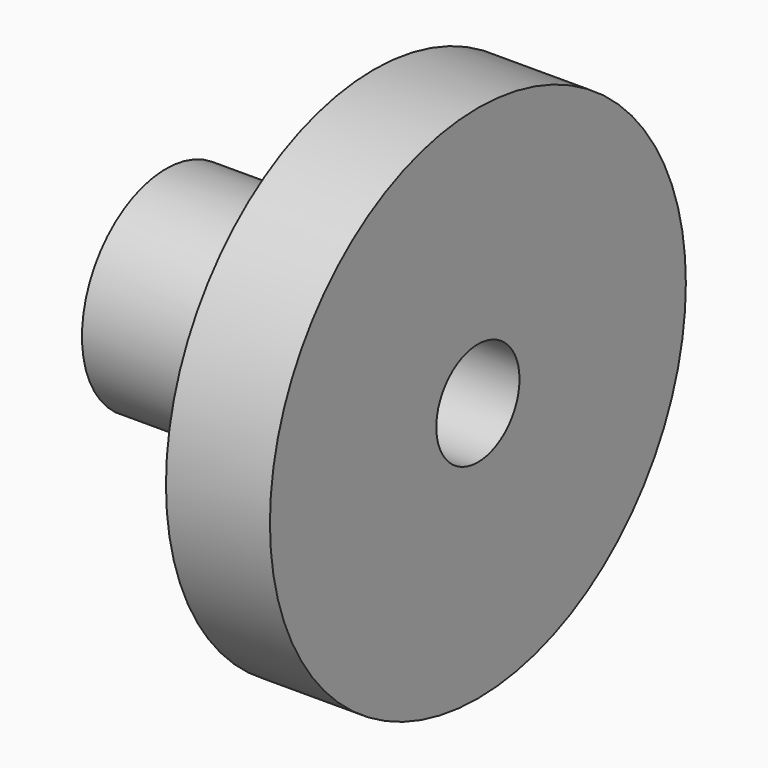
from build123d import *

# Parameters (mm, degrees)
F0_R     = 12.5
F3_DEPTH = 5
F1_R     = 2.5
F4_DEPTH = 10
F2_R     = 2.5
F6_DEPTH = 3
F7_R     = 5.046872
F8_DEPTH = 10


with BuildPart() as f3:
    # F0 (on Right) → F3 (new body)
    with BuildSketch(Plane.YZ):
        Circle(F0_R)
    extrude(amount=F3_DEPTH)

    # F1 (on Right) → F4 (cut)
    with BuildSketch(Plane.YZ):
        Circle(F1_R)
    extrude(amount=F4_DEPTH, mode=Mode.SUBTRACT)

    # F2 (on Right) → F6 (cut)
    with BuildSketch(Plane.YZ):
        Circle(F2_R)
    extrude(amount=F6_DEPTH, mode=Mode.SUBTRACT)

    # F7 (on face) → F8 (join)
    with BuildSketch(Plane.YZ):
        Circle(F7_R)
    extrude(amount=-F8_DEPTH)


solid = f3.part
